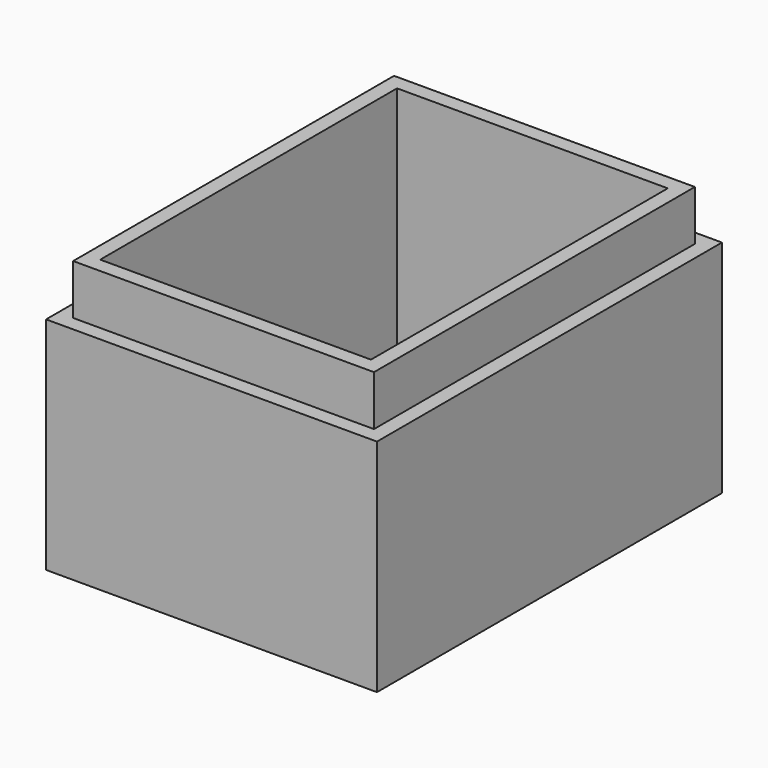
from build123d import *

# Parameters (mm, degrees)
F0_W     = 76.2
F0_H     = 101.6
F0_W_2   = 68.58
F0_H_2   = 93.98
F1_DEPTH = 68.58
F0_W_3   = 83.82
F0_H_3   = 109.22
F2_DEPTH = 55.88
F3_W     = 68.58
F3_H     = 93.98
F4_DEPTH = 5.08


with BuildPart() as f1:
    # F0 (on Top) → F1 (new body)
    with BuildSketch(Plane.XY):
        Rectangle(F0_W, F0_H)
        Rectangle(F0_W_2, F0_H_2, mode=Mode.SUBTRACT)
    extrude(amount=F1_DEPTH)

    # F0 (on Top) → F2 (join)
    with BuildSketch(Plane.XY):
        Rectangle(F0_W_3, F0_H_3)
        Rectangle(F0_W, F0_H, mode=Mode.SUBTRACT)
    extrude(amount=F2_DEPTH)

    # F3 (on Top) → F4 (join)
    with BuildSketch(Plane.XY):
        Rectangle(F3_W, F3_H)
    extrude(amount=F4_DEPTH)


solid = f1.part
